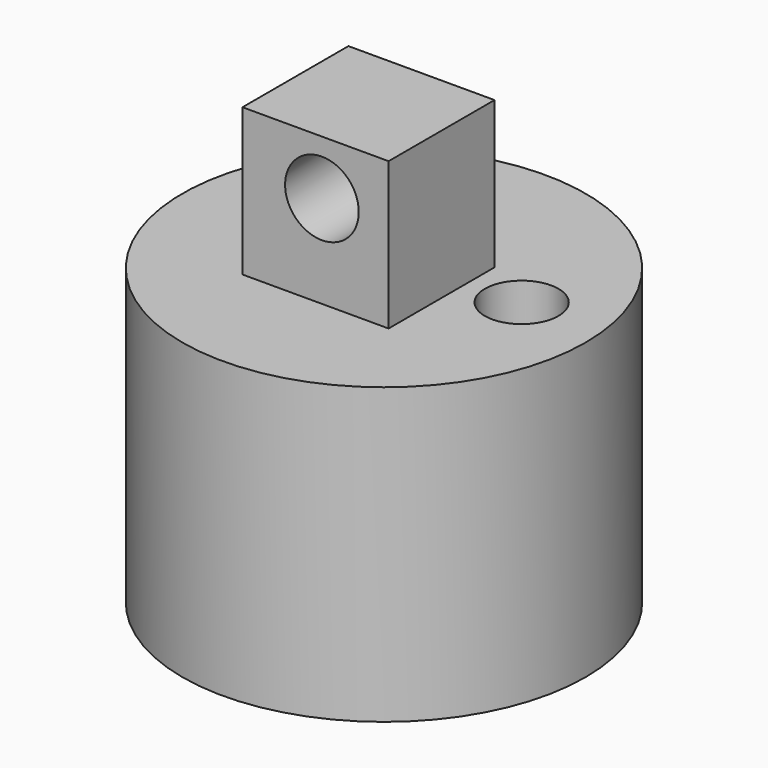
from build123d import *

# Parameters (mm, degrees)
F0_R     = 69.542462
F1_DEPTH = 101.6
F2_W     = 50.384016
F2_H     = 45.657624
F3_DEPTH = 50.8
F5_D     = 25.4
F7_D     = 25.4


with BuildPart() as f1:
    # F0 (on Top) → F1 (new body)
    with BuildSketch(Plane.XY):
        Circle(F0_R)
    extrude(amount=F1_DEPTH)

    # F2 (on face) → F3 (join)
    with BuildSketch(Plane.XY.offset(101.6)):
        with Locations((-2.197395, -3.927665)):
            Rectangle(F2_W, F2_H)
    extrude(amount=F3_DEPTH)

    # F5 (through all)
    with Locations(Plane(origin=(0, 18.901147, 0), x_dir=(-1, 0, 0), z_dir=(0, 1, 0))):
        with Locations((0, 133.62363)):
            Hole(F5_D / 2)

    # F7 (through all)
    with Locations(Plane.XY.offset(101.6)):
        with Locations((41.455068, 7.525192)):
            Hole(F7_D / 2)


solid = f1.part
